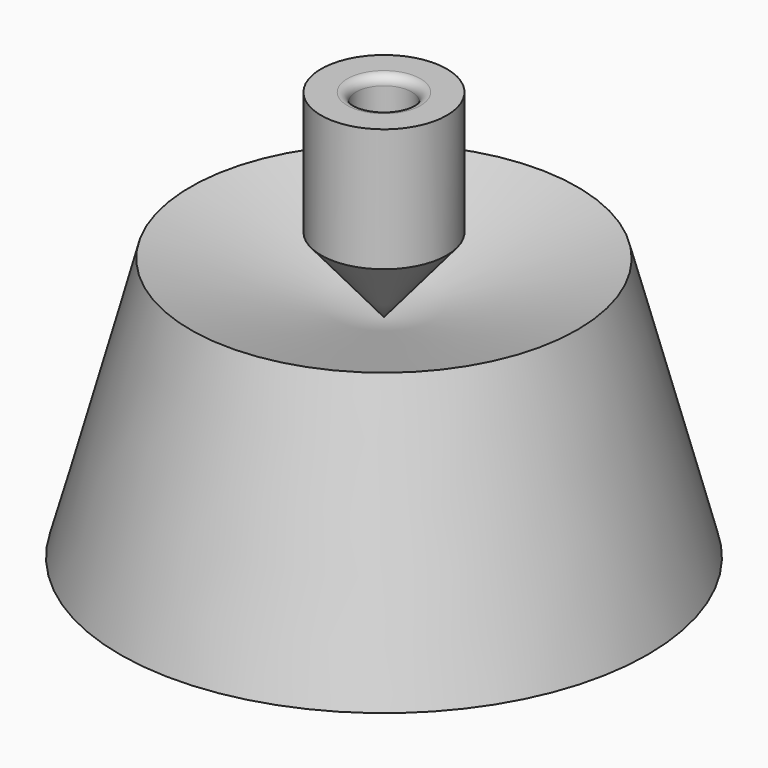
from build123d import *

# Parameters (mm, degrees)
F2_R = 0.5


with BuildPart() as f1:
    # F0 (on Front) → F1 (revolve)
    with BuildSketch(Plane.XZ):
        Polygon((10.995191, -1.314367), (0, -4.260519), (0, -10.260519), (2.75, -10.260519), (2.75, -16.260519), (15, -16.260519), align=None)
        Polygon((0, 0), (0, -4.260519), (3.575, 0), (3.575, 7), (1.575, 7), (1.575, 0), align=None)
    revolve(axis=Axis((0, 0, 2.189423), (0, 0, 1)))

    # F2
    f2_edges = [f1.edges().sort_by_distance(p)[0] for p in [
        (-1.575, 0, 7),
    ]]
    fillet(f2_edges, radius=F2_R)


solid = f1.part
